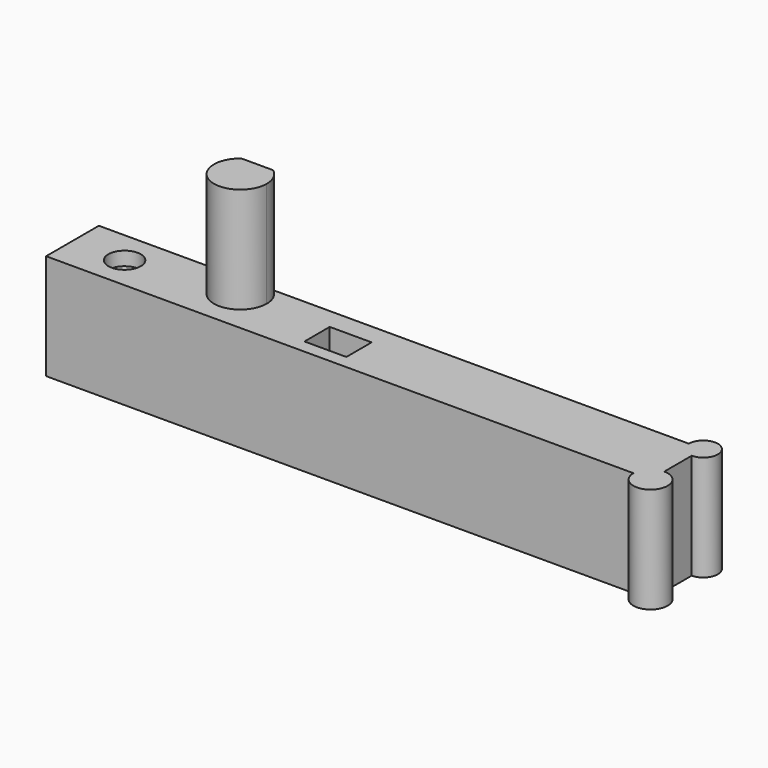
from build123d import *

# Parameters (mm, degrees)
F0_W      = 145.415
F0_H      = 15.875
F1_DEPTH  = 25.4
F3_DEPTH  = 25.4
F2_R      = 3.9042600658
F4_DEPTH  = 3.302
F5_W      = 10.0848590955
F5_H      = 7.6029407792
F6_DEPTH  = 25.4
F7_W      = 3.4926307648
F7_H      = 25.4
F9_R      = 4.1220063289
F10_DEPTH = 25.4


with BuildPart() as f1:
    # F0 (on Top) → F1 (new body)
    with BuildSketch(Plane.XY):
        Rectangle(F0_W, F0_H)
    extrude(amount=F1_DEPTH)

    # F2 (on face) → F3 (join)
    with BuildSketch(Plane.XY.offset(25.4)):
        with BuildLine():
            ThreePointArc((-38.4175, 7.9375), (-37.4473063314, -2.8221126628), (-28.2575, 2.8575))
            ThreePointArc((-28.2575, 2.8575), (-28.9278873372, 5.6973063314), (-30.7975, 7.9375))
            Line((-30.7975, 7.9375), (-38.4175, 7.9375))
        make_face()
    extrude(amount=F3_DEPTH)

    # F2 (on face) → F4 (cut)
    with BuildSketch(Plane.XY.offset(25.4)):
        with Locations((-60.1726733148, 0)):
            Circle(F2_R)
    extrude(amount=-F4_DEPTH, mode=Mode.SUBTRACT)

    # F5 (on face) → F6 (cut, through all)
    with BuildSketch(Plane.XY.offset(25.4)):
        with Locations((-8.0950618722, -0.9069514927)):
            Rectangle(F5_W, F5_H)
    extrude(amount=-F6_DEPTH, mode=Mode.SUBTRACT)

    # F7 (on face) → F8 (revolve)
    with BuildSketch(Plane.YZ.offset(72.7075)):
        with Locations((6.1911846176, 12.7)):
            Rectangle(F7_W, F7_H)
    revolve(axis=Axis((72.7075, 7.9375, 12.7), (0, 0, -1)))

    # F9 (on face) → F10 (join, through all)
    with BuildSketch(Plane.XY.offset(25.4)):
        with Locations((72.7075, -7.9375)):
            Circle(F9_R)
    extrude(amount=-F10_DEPTH)


solid = f1.part
